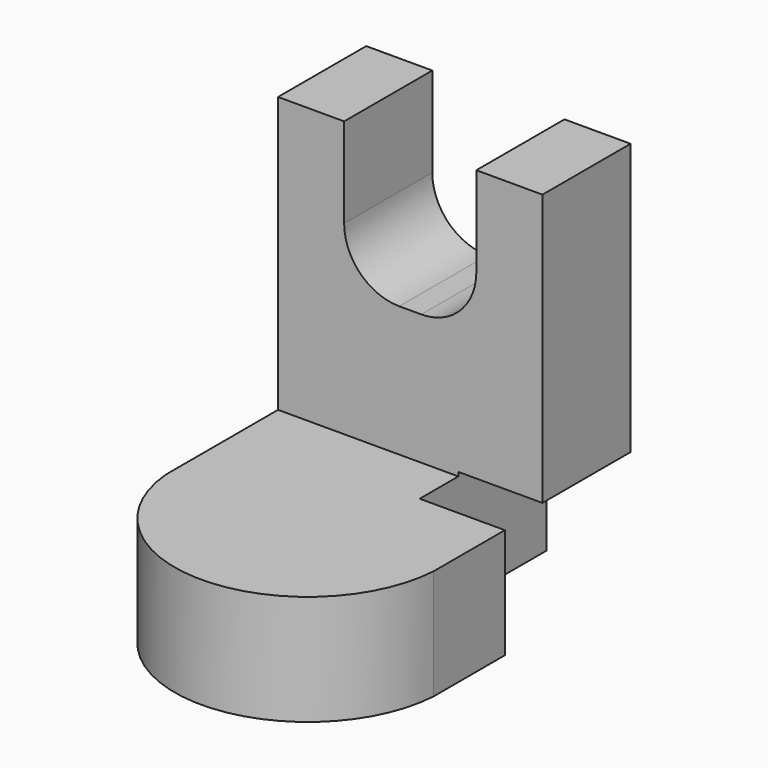
from build123d import *

# Parameters (mm, degrees)
F1_DEPTH = 25.4
F3_DEPTH = 25.4


with BuildPart() as f1:
    # F0 (on Front) → F1 (new body)
    with BuildSketch(Plane.XZ):
        with BuildLine():
            Line((-28.17091, 55.533636), (-28.17091, -33.366363))
            Line((-28.17091, -33.366363), (13.392729, -33.366363))
            Line((13.392729, -33.366363), (13.392729, -7.042727))
            Line((13.392729, -7.042727), (32.789093, -7.042727))
            Line((32.789093, -7.042727), (32.789093, 55.533636))
            Line((32.789093, 55.533636), (17.549092, 55.533636))
            Line((17.549092, 55.533636), (17.549092, 34.837736))
            ThreePointArc((17.549092, 34.837736), (13.829348, 25.85748), (4.849092, 22.137736))
            Line((4.849092, 22.137736), (-0.230909, 22.137736))
            ThreePointArc((-0.230909, 22.137736), (-9.211165, 25.85748), (-12.930909, 34.837736))
            Line((-12.930909, 34.837736), (-12.930909, 55.533636))
            Line((-12.930909, 55.533636), (-28.17091, 55.533636))
        make_face()
    extrude(amount=F1_DEPTH)

    # F2 (on face) → F3 (join)
    with BuildSketch(Plane(origin=(0, 0, -33.366363), x_dir=(1, 0, 0), z_dir=(0, 0, -1))):
        with BuildLine():
            Line((-28.17091, 57.715932), (-28.17091, 0))
            Line((-28.17091, 0), (13.392729, 0))
            Line((13.392729, 0), (13.392729, 36.534619))
            Line((13.392729, 36.534619), (33.020001, 36.534619))
            Line((33.020001, 36.534619), (33.020001, 57.062088))
            ThreePointArc((33.020001, 57.062088), (2.727389, 85.731034), (-28.17091, 57.715932))
        make_face()
    extrude(amount=-F3_DEPTH)


solid = f1.part
